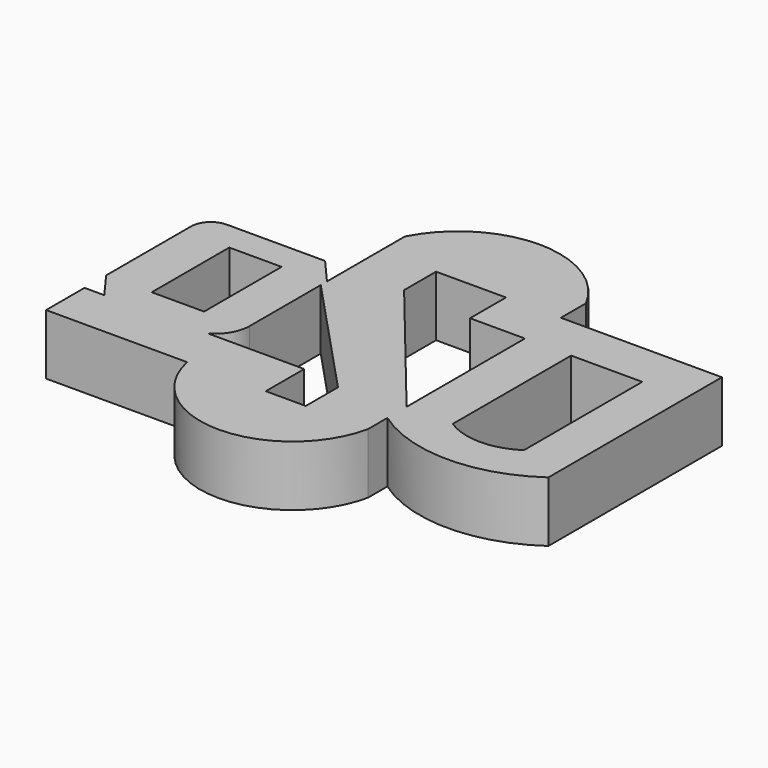
from build123d import *

# Parameters (mm, degrees)
F0_W     = 5.501232
F0_H     = 10.183676
F1_DEPTH = 6.35


with BuildPart() as f1:
    # F0 (on Top) → F1 (new body)
    with BuildSketch(Plane.XY):
        with BuildLine():
            Line((-21.024568, 0), (-23.102842, 0))
            Line((-23.102842, 0), (-23.102842, -5.053747))
            Line((-23.102842, -5.053747), (-8.269768, -5.053747))
            ThreePointArc((-8.269768, -5.053747), (1.247028, -12.800027), (10.763824, -5.053747))
            Line((10.763824, -5.053747), (10.763824, -2.526873))
            ThreePointArc((10.763824, -2.526873), (19.230491, -5.20295), (27.697158, -2.526873))
            Line((27.697158, -2.526873), (27.697158, 15.555039))
            Line((27.697158, 15.555039), (27.697158, 20.280621))
            Line((27.697158, 20.280621), (10.763824, 20.280621))
            Line((10.763824, 20.280621), (10.763824, 23.563793))
            ThreePointArc((10.763824, 23.563793), (7.258244, 27.516062), (2.289737, 29.311463))
            ThreePointArc((2.289737, 29.311463), (1.14428, 29.361855), (0, 29.289493))
            ThreePointArc((0, 29.289493), (-4.848945, 27.457979), (-8.269768, 23.563793))
            Line((-8.269768, 23.563793), (-8.269768, 13.323515))
            Line((-8.269768, 13.323515), (-10.668843, 16.080103))
            Line((-10.668843, 16.080103), (-15.686305, 16.080103))
            Line((-15.686305, 16.080103), (-20.0435, 16.080103))
            Line((-20.0435, 16.080103), (-21.024568, 16.080103))
            ThreePointArc((-21.024568, 16.080103), (-22.508695, 15.456849), (-23.102842, 13.960832))
            Line((-23.102842, 13.960832), (-23.102842, 12.142118))
            Line((-23.102842, 12.142118), (-23.102842, 8.040052))
            Line((-23.102842, 8.040052), (-23.102842, 2.839885))
            Line((-23.102842, 2.839885), (-21.024568, 0))
        make_face()
        with Locations((-15.551776, 7.931723)):
            Rectangle(F0_W, F0_H, mode=Mode.SUBTRACT)
        with BuildLine():
            Line((0, -5.053747), (0, 0))
            Line((0, 0), (-8.269768, 0))
            Line((-8.269768, 0), (-10.123806, 0))
            ThreePointArc((-10.123806, 0), (-8.76723, 1.336218), (-8.269768, 3.174236))
            Line((-8.269768, 3.174236), (-8.269768, 12.50577))
            Line((-8.269768, 12.50577), (4.200517, -0.817745))
            Line((4.200517, -0.817745), (4.200517, -5.053747))
            Line((4.200517, -5.053747), (0, -5.053747))
        make_face(mode=Mode.SUBTRACT)
        with BuildLine():
            Line((15.620673, 15.555039), (23.102842, 15.555039))
            Line((23.102842, 15.555039), (23.102842, 0))
            ThreePointArc((23.102842, 0), (19.361757, -1.116151), (15.620673, 0))
            Line((15.620673, 0), (15.620673, 15.555039))
        make_face(mode=Mode.SUBTRACT)
        Polygon((10.763824, 15.555039), (10.763824, 0), (-2.362791, 16.080103), (-2.362791, 20.280621), (4.988113, 20.280621), (4.988113, 15.555039), align=None, mode=Mode.SUBTRACT)
        with BuildLine():
            Line((-21.024568, 0), (-23.102842, 0))
            Line((-23.102842, 0), (-23.102842, -5.053747))
            Line((-23.102842, -5.053747), (-8.269768, -5.053747))
            ThreePointArc((-8.269768, -5.053747), (1.247028, -12.800027), (10.763824, -5.053747))
            Line((10.763824, -5.053747), (10.763824, -2.526873))
            ThreePointArc((10.763824, -2.526873), (19.230491, -5.20295), (27.697158, -2.526873))
            Line((27.697158, -2.526873), (27.697158, 15.555039))
            Line((27.697158, 15.555039), (27.697158, 20.280621))
            Line((27.697158, 20.280621), (10.763824, 20.280621))
            Line((10.763824, 20.280621), (10.763824, 23.563793))
            ThreePointArc((10.763824, 23.563793), (7.258244, 27.516062), (2.289737, 29.311463))
            ThreePointArc((2.289737, 29.311463), (1.14428, 29.361855), (0, 29.289493))
            ThreePointArc((0, 29.289493), (-4.848945, 27.457979), (-8.269768, 23.563793))
            Line((-8.269768, 23.563793), (-8.269768, 13.323515))
            Line((-8.269768, 13.323515), (-10.668843, 16.080103))
            Line((-10.668843, 16.080103), (-15.686305, 16.080103))
            Line((-15.686305, 16.080103), (-20.0435, 16.080103))
            Line((-20.0435, 16.080103), (-21.024568, 16.080103))
            ThreePointArc((-21.024568, 16.080103), (-22.508695, 15.456849), (-23.102842, 13.960832))
            Line((-23.102842, 13.960832), (-23.102842, 12.142118))
            Line((-23.102842, 12.142118), (-23.102842, 8.040052))
            Line((-23.102842, 8.040052), (-23.102842, 2.839885))
            Line((-23.102842, 2.839885), (-21.024568, 0))
        make_face()
        with Locations((-15.551776, 7.931723)):
            Rectangle(F0_W, F0_H, mode=Mode.SUBTRACT)
        with BuildLine():
            Line((0, -5.053747), (0, 0))
            Line((0, 0), (-8.269768, 0))
            Line((-8.269768, 0), (-10.123806, 0))
            ThreePointArc((-10.123806, 0), (-8.76723, 1.336218), (-8.269768, 3.174236))
            Line((-8.269768, 3.174236), (-8.269768, 12.50577))
            Line((-8.269768, 12.50577), (4.200517, -0.817745))
            Line((4.200517, -0.817745), (4.200517, -5.053747))
            Line((4.200517, -5.053747), (0, -5.053747))
        make_face(mode=Mode.SUBTRACT)
        with BuildLine():
            Line((15.620673, 15.555039), (23.102842, 15.555039))
            Line((23.102842, 15.555039), (23.102842, 0))
            ThreePointArc((23.102842, 0), (19.361757, -1.116151), (15.620673, 0))
            Line((15.620673, 0), (15.620673, 15.555039))
        make_face(mode=Mode.SUBTRACT)
        Polygon((10.763824, 15.555039), (10.763824, 0), (-2.362791, 16.080103), (-2.362791, 20.280621), (4.988113, 20.280621), (4.988113, 15.555039), align=None, mode=Mode.SUBTRACT)
        with BuildLine():
            Line((-21.024568, 0), (-23.102842, 0))
            Line((-23.102842, 0), (-23.102842, -5.053747))
            Line((-23.102842, -5.053747), (-8.269768, -5.053747))
            ThreePointArc((-8.269768, -5.053747), (1.247028, -12.800027), (10.763824, -5.053747))
            Line((10.763824, -5.053747), (10.763824, -2.526873))
            ThreePointArc((10.763824, -2.526873), (19.230491, -5.20295), (27.697158, -2.526873))
            Line((27.697158, -2.526873), (27.697158, 15.555039))
            Line((27.697158, 15.555039), (27.697158, 20.280621))
            Line((27.697158, 20.280621), (10.763824, 20.280621))
            Line((10.763824, 20.280621), (10.763824, 23.563793))
            ThreePointArc((10.763824, 23.563793), (7.258244, 27.516062), (2.289737, 29.311463))
            ThreePointArc((2.289737, 29.311463), (1.14428, 29.361855), (0, 29.289493))
            ThreePointArc((0, 29.289493), (-4.848945, 27.457979), (-8.269768, 23.563793))
            Line((-8.269768, 23.563793), (-8.269768, 13.323515))
            Line((-8.269768, 13.323515), (-10.668843, 16.080103))
            Line((-10.668843, 16.080103), (-15.686305, 16.080103))
            Line((-15.686305, 16.080103), (-20.0435, 16.080103))
            Line((-20.0435, 16.080103), (-21.024568, 16.080103))
            ThreePointArc((-21.024568, 16.080103), (-22.508695, 15.456849), (-23.102842, 13.960832))
            Line((-23.102842, 13.960832), (-23.102842, 12.142118))
            Line((-23.102842, 12.142118), (-23.102842, 8.040052))
            Line((-23.102842, 8.040052), (-23.102842, 2.839885))
            Line((-23.102842, 2.839885), (-21.024568, 0))
        make_face()
        with Locations((-15.551776, 7.931723)):
            Rectangle(F0_W, F0_H, mode=Mode.SUBTRACT)
        with BuildLine():
            Line((0, -5.053747), (0, 0))
            Line((0, 0), (-8.269768, 0))
            Line((-8.269768, 0), (-10.123806, 0))
            ThreePointArc((-10.123806, 0), (-8.76723, 1.336218), (-8.269768, 3.174236))
            Line((-8.269768, 3.174236), (-8.269768, 12.50577))
            Line((-8.269768, 12.50577), (4.200517, -0.817745))
            Line((4.200517, -0.817745), (4.200517, -5.053747))
            Line((4.200517, -5.053747), (0, -5.053747))
        make_face(mode=Mode.SUBTRACT)
        with BuildLine():
            Line((15.620673, 15.555039), (23.102842, 15.555039))
            Line((23.102842, 15.555039), (23.102842, 0))
            ThreePointArc((23.102842, 0), (19.361757, -1.116151), (15.620673, 0))
            Line((15.620673, 0), (15.620673, 15.555039))
        make_face(mode=Mode.SUBTRACT)
        Polygon((10.763824, 15.555039), (10.763824, 0), (-2.362791, 16.080103), (-2.362791, 20.280621), (4.988113, 20.280621), (4.988113, 15.555039), align=None, mode=Mode.SUBTRACT)
    extrude(amount=F1_DEPTH)


solid = f1.part
